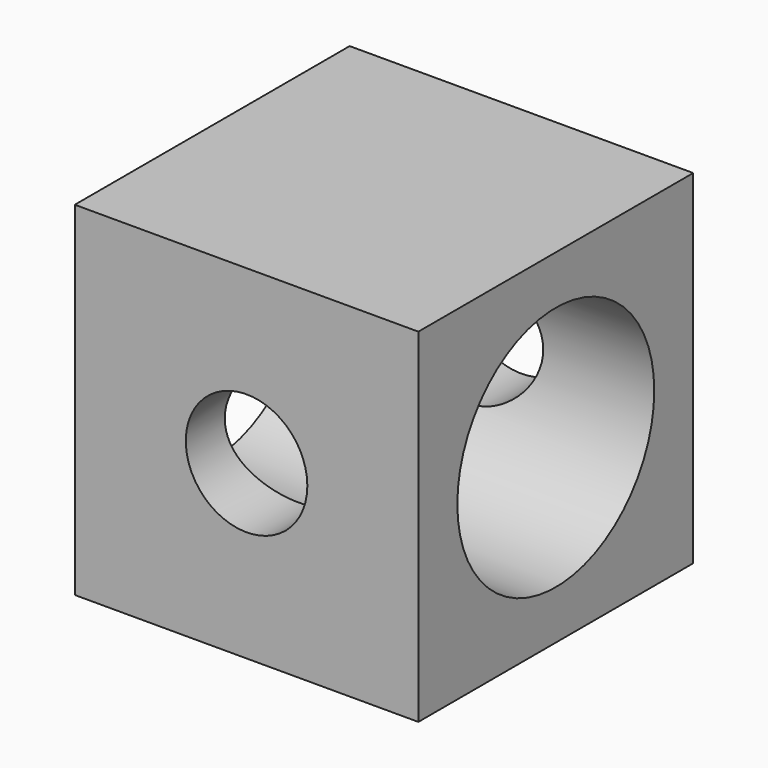
from build123d import *

# Parameters (mm, degrees)
F0_W     = 127
F0_H     = 127
F1_DEPTH = 127
F2_R     = 22.465929
F3_DEPTH = 145.034
F4_R     = 45.490035
F5_DEPTH = 141.478


with BuildPart() as f1:
    # F0 (on Front) → F1 (new body)
    with BuildSketch(Plane.XZ):
        with Locations((10.444654, 21.982812)):
            Rectangle(F0_W, F0_H)
    extrude(amount=F1_DEPTH)

    # F2 (on face) → F3 (cut)
    with BuildSketch(Plane.XZ.offset(127)):
        with Locations((10.444654, 21.982812)):
            Circle(F2_R)
    extrude(amount=-F3_DEPTH, mode=Mode.SUBTRACT)

    # F4 (on face) → F5 (cut)
    with BuildSketch(Plane.YZ.offset(73.944654)):
        with Locations((-63.5, 21.982812)):
            Circle(F4_R)
    extrude(amount=-F5_DEPTH, mode=Mode.SUBTRACT)


solid = f1.part
